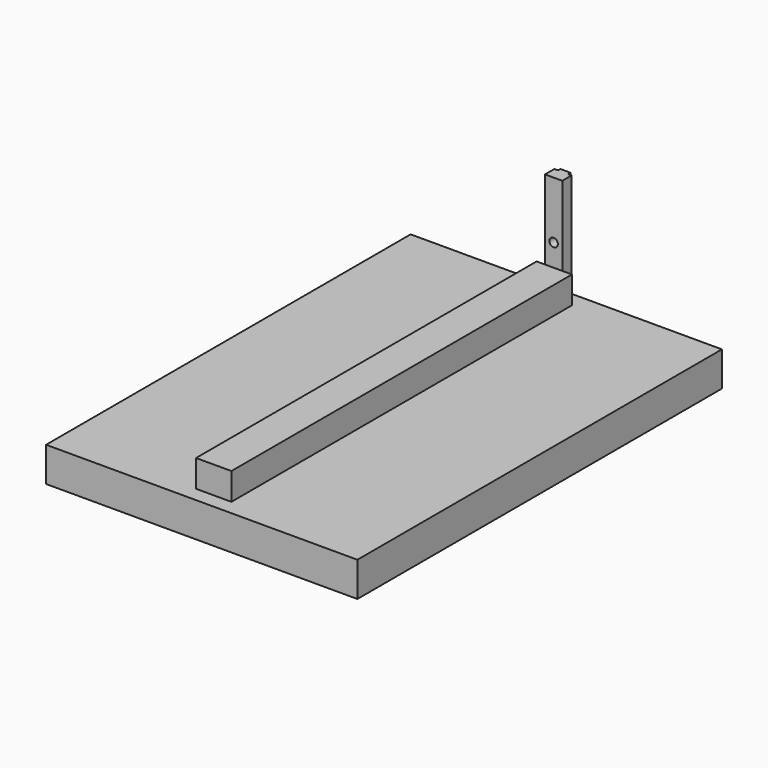
from build123d import *

# Parameters (mm, degrees)
F0_W     = 2.342829
F0_H     = 1.397
F0_W_2   = 2.34442
F1_DEPTH = 50.8
F3_D     = 4.064
F4_W     = 16.880292
F4_H     = 12.94488
F5_DEPTH = 203.2
F6_W     = 148.601494
F6_H     = 217.50565
F7_DEPTH = 16.51


with BuildPart() as f1:
    # F0 (on Top) → F1 (new body)
    with BuildSketch(Plane.XY):
        Polygon((-4.1275, -2.794), (4.1275, -2.794), (4.1275, 2.794), (2.9845, 2.794), (2.35712, 2.794), (0.0127, 2.794), (-0.0127, 2.794), (-2.355529, 2.794), (-4.1275, 2.794), align=None)
        with Locations((-1.184114, 3.4925)):
            Rectangle(F0_W, F0_H)
        with Locations((1.18491, 3.4925)):
            Rectangle(F0_W_2, F0_H)
        Polygon((-0.0127, 4.191), (-0.0127, 2.794), (0.0127, 2.794), (0.0127, 4.191), (0, 4.191), align=None)
    extrude(amount=F1_DEPTH)

    # F3 (through all)
    with Locations(Plane.XZ.offset(2.794)):
        with Locations((0, 23.493898)):
            Hole(F3_D / 2)

    # F4 (on face) → F5 (join)
    with BuildSketch(Plane.XZ.offset(2.794)):
        with Locations((0.316053, 6.454206)):
            Rectangle(F4_W, F4_H)
    extrude(amount=F5_DEPTH)

    # F6 (on face) → F7 (join)
    with BuildSketch(Plane(origin=(0, 0, -0.018234), x_dir=(1, 0, 0), z_dir=(0, 0, -1))):
        with Locations((0.316053, 104.394)):
            Rectangle(F6_W, F6_H)
    extrude(amount=F7_DEPTH)


solid = f1.part
